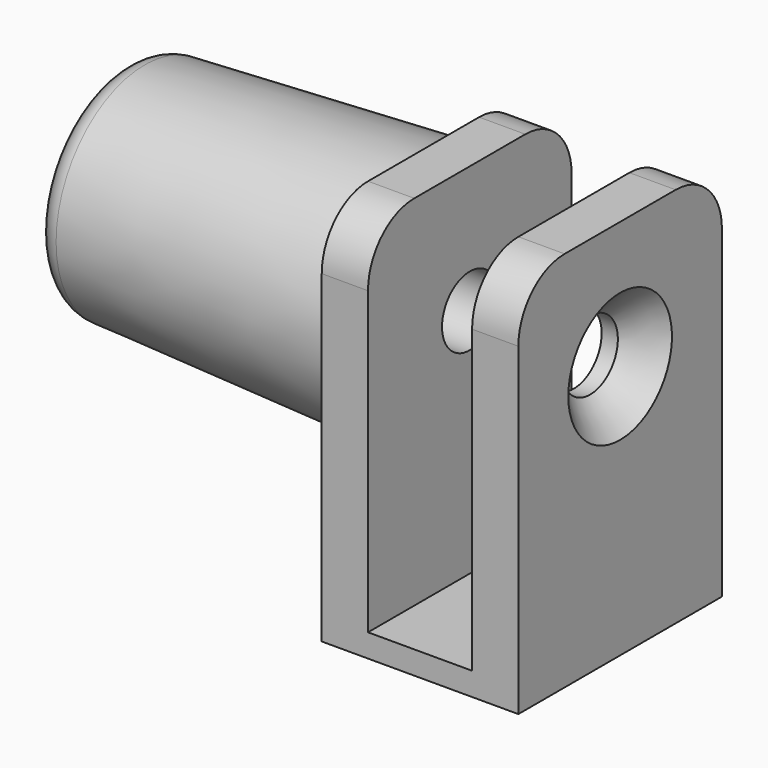
from build123d import *

# Parameters (mm, degrees)
SKETCH_W         = 17
SKETCH_H         = 22
PAD_DEPTH        = 2
SKETCH001_W      = 4
SKETCH001_H      = 22
PAD001_DEPTH     = 31
SKETCH002_R      = 10.75
SKETCH003_R      = 9.5
FILLET_R         = 2
HOLE_D           = 6
HOLE_DEPTH       = 26.197418
HOLE_CSINK_D     = 11.2
HOLE_CSINK_ANGLE = 90
HOLE_TIPS_R      = 3
FILLET001_R      = 5


with BuildPart() as part:
    # Sketch → Pad (new body)
    with BuildSketch(Plane.XY):
        with Locations((8.5, 11)):
            Rectangle(SKETCH_W, SKETCH_H)
    extrude(amount=PAD_DEPTH)

    # Sketch001 (on Face6 of Pad) → Pad001 (join)
    with BuildSketch(Plane.XY.offset(2)):
        with Locations((15, 11)):
            Rectangle(SKETCH001_W, SKETCH001_H)
        with Locations((2, 11)):
            Rectangle(SKETCH001_W, SKETCH001_H)
    extrude(amount=PAD001_DEPTH)

    # Sketch002 (on Face9 of Pad001) → AdditiveLoft section 0
    with BuildSketch(Plane(origin=(0, 0, 0), x_dir=(0, -1, 0), z_dir=(-1, 0, 0))):
        with Locations((-11, 22)):
            Circle(SKETCH002_R)
    # Sketch003 (on Face9 of Pad001) → AdditiveLoft section 1
    with BuildSketch(Plane(origin=(-26, 0, 0), x_dir=(0, -1, 0), z_dir=(-1, 0, 0))):
        with Locations((-11, 22)):
            Circle(SKETCH003_R)
    loft()

    # Fillet
    fillet_edges = [part.edges().sort_by_distance(p)[0] for p in [
        (-26, 20.5, 22),
    ]]
    fillet(fillet_edges, radius=FILLET_R)

    # Hole
    with Locations(Plane.YZ.offset(17)):
        with Locations((11, 22)):
            CounterSinkHole(HOLE_D / 2, HOLE_CSINK_D / 2, depth=HOLE_DEPTH, counter_sink_angle=HOLE_CSINK_ANGLE)

    # Hole tips → Hole tip 1 section 0
    with BuildSketch(Plane.YZ.offset(-9.197418), mode=Mode.PRIVATE) as hole_tip_1_s0:
        with Locations((11, 22)):
            Circle(HOLE_TIPS_R)
    loft([hole_tip_1_s0.sketch, Vertex(-11, 11, 22)], mode=Mode.SUBTRACT)

    # Fillet001
    fillet001_edges = [part.edges().sort_by_distance(p)[0] for p in [
        (15, 0, 33),
        (2, 0, 33),
        (2, 22, 33),
        (15, 22, 33),
    ]]
    fillet(fillet001_edges, radius=FILLET001_R)


solid = part.part
